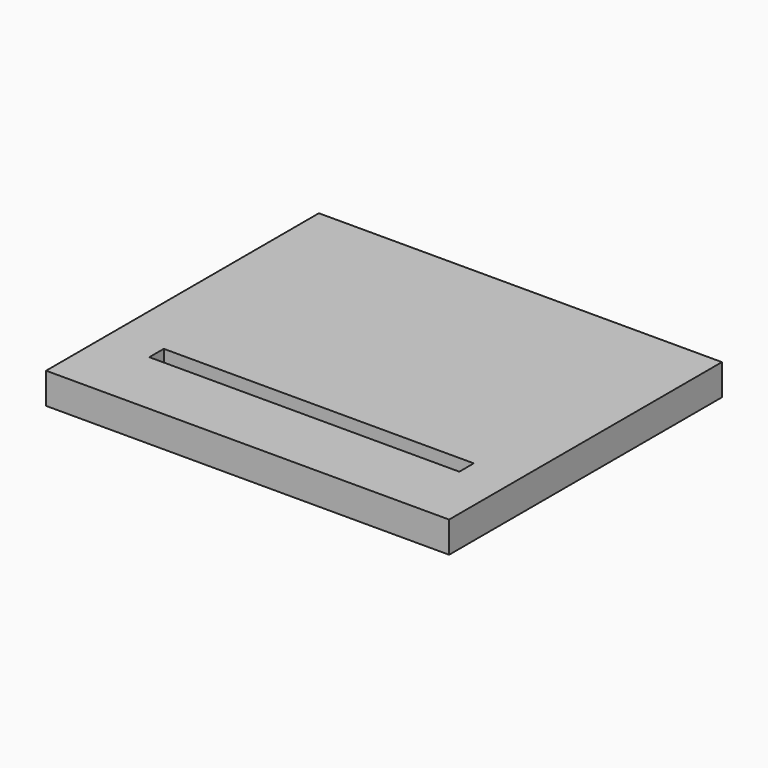
from build123d import *

# Parameters (mm, degrees)
F1_DEPTH = 2


with BuildPart() as f1:
    # F0 (on Top) → F1 (new body)
    with BuildSketch(Plane.XY):
        Polygon((13, -8.5), (13, 8.5), (-13, 8.5), (-13, -8.5), (-13, -13.5), (6.247106, -13.5), (13, -13.5), align=None)
        Polygon((10.138918, -9.100043), (6.247106, -9.1), (-9.861082, -9.099823), (-9.861082, -7.931823), (10.138918, -7.932043), align=None, mode=Mode.SUBTRACT)
    extrude(amount=F1_DEPTH)


solid = f1.part
